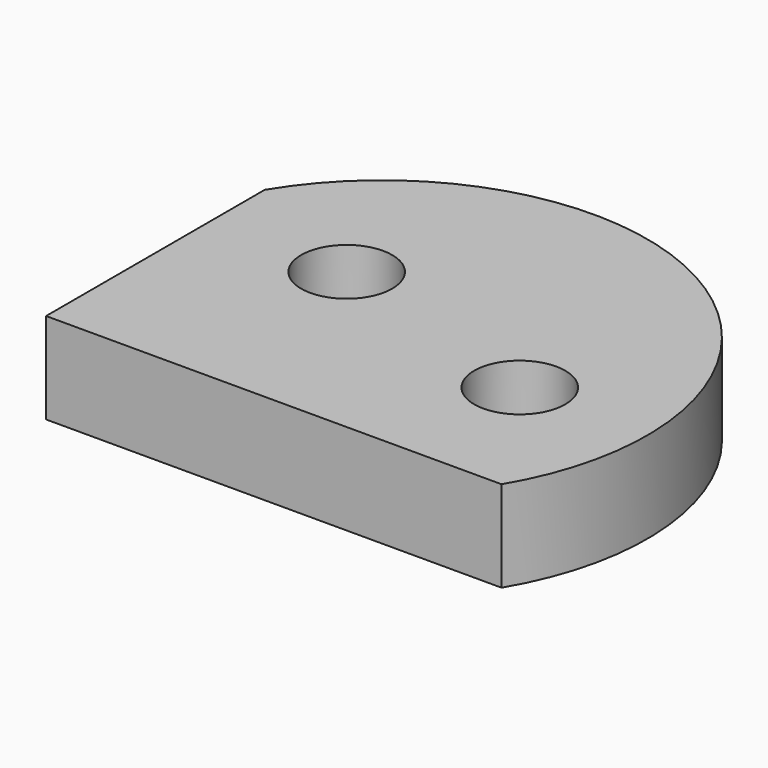
from build123d import *

# Parameters (mm, degrees)
F0_R     = 10
F1_DEPTH = 20


with BuildPart() as f1:
    # F0 (on Top) → F1 (new body)
    with BuildSketch(Plane.XY):
        with BuildLine():
            Line((0, 60), (0, 0))
            Line((0, 0), (100, 0))
            ThreePointArc((100, 0), (79.878387, 79.797312), (0, 60))
        make_face()
        with Locations((80, 30)):
            Circle(F0_R, mode=Mode.SUBTRACT)
        with Locations((30, 45)):
            Circle(F0_R, mode=Mode.SUBTRACT)
    extrude(amount=F1_DEPTH)


solid = f1.part
